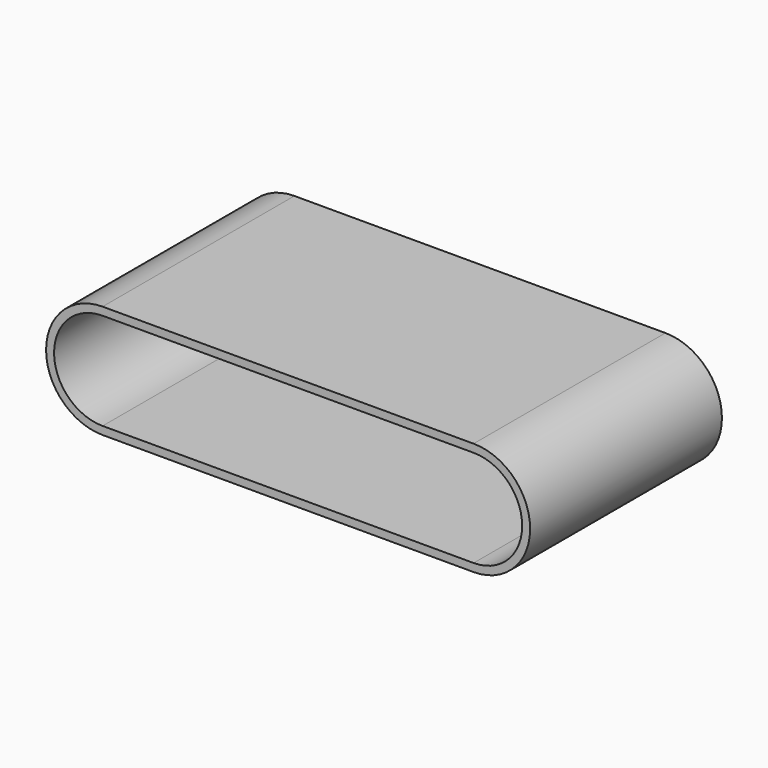
from build123d import *

# Parameters (mm, degrees)
F1_DEPTH = 1.5
F2_DEPTH = 42


with BuildPart() as f1:
    # F0 (on Front) → F1 (new body)
    with BuildSketch(Plane.XZ):
        with BuildLine():
            Line((32.5, 8), (-32.5, 8))
            ThreePointArc((-32.5, 8), (-40.5, 0), (-32.5, -8))
            Line((-32.5, -8), (32.5, -8))
            ThreePointArc((32.5, -8), (40.5, 0), (32.5, 8))
        make_face()
        with BuildLine():
            Line((32.5, 8.5), (-32.5, 8.5))
            Line((-32.5, 8.5), (-32.5, 8))
            Line((-32.5, 8), (32.5, 8))
            ThreePointArc((32.5, 8), (40.5, 0), (32.5, -8))
            Line((32.5, -8), (32.5, -8.5))
            ThreePointArc((32.5, -8.5), (41, 0), (32.5, 8.5))
        make_face()
        with BuildLine():
            Line((-32.5, 8), (-32.5, 8.5))
            ThreePointArc((-32.5, 8.5), (-41, 0), (-32.5, -8.5))
            Line((-32.5, -8.5), (32.5, -8.5))
            Line((32.5, -8.5), (32.5, -8))
            Line((32.5, -8), (-32.5, -8))
            ThreePointArc((-32.5, -8), (-40.5, 0), (-32.5, 8))
        make_face()
    extrude(amount=F1_DEPTH)

    # F0 (on Front) → F2 (join)
    with BuildSketch(Plane.XZ):
        with BuildLine():
            Line((32.5, 9.9), (-32.5, 9.9))
            Line((-32.5, 9.9), (-32.5, 8.5))
            Line((-32.5, 8.5), (32.5, 8.5))
            ThreePointArc((32.5, 8.5), (41, 0), (32.5, -8.5))
            Line((32.5, -8.5), (32.5, -9.9))
            ThreePointArc((32.5, -9.9), (42.4, 0), (32.5, 9.9))
        make_face()
        with BuildLine():
            Line((-32.5, 8.5), (-32.5, 9.9))
            ThreePointArc((-32.5, 9.9), (-42.4, 0), (-32.5, -9.9))
            Line((-32.5, -9.9), (32.5, -9.9))
            Line((32.5, -9.9), (32.5, -8.5))
            Line((32.5, -8.5), (-32.5, -8.5))
            ThreePointArc((-32.5, -8.5), (-41, 0), (-32.5, 8.5))
        make_face()
    extrude(amount=F2_DEPTH)


solid = f1.part
